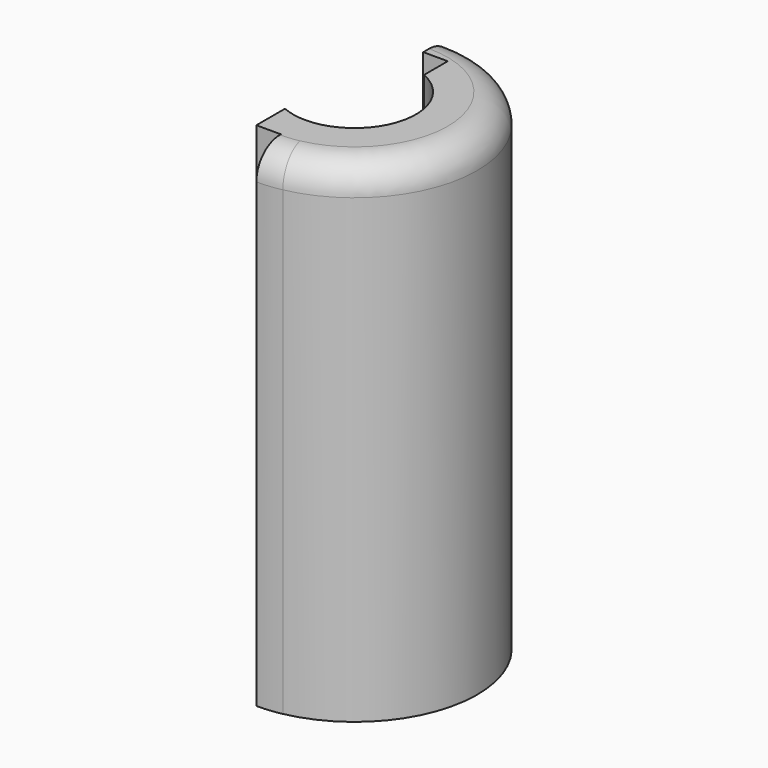
from build123d import *

# Parameters (mm, degrees)
F1_DEPTH = 100
F2_R     = 6


with BuildPart() as f1:
    # F0 (on Top) → F1 (new body)
    with BuildSketch(Plane.XY):
        with BuildLine():
            ThreePointArc((5, 11.456439), (12.236329, -2.553871), (0, -12.5))
            ThreePointArc((0, -12.5), (-2.553871, -12.236329), (-5, -11.456439))
            Line((-5, -11.456439), (-5, -18.75))
            Line((-5, -18.75), (0, -18.75))
            Line((0, -18.75), (0, -25))
            ThreePointArc((0, -25), (2.512724, -24.873404), (5, -24.494897))
            ThreePointArc((5, -24.494897), (24.873404, 2.512724), (0, 25))
            Line((0, 25), (0, 17.5))
            Line((0, 17.5), (5, 17.5))
            Line((5, 17.5), (5, 11.456439))
        make_face()
    extrude(amount=F1_DEPTH)

    # F2
    f2_edges = [f1.edges().sort_by_distance(p)[0] for p in [
        (25, 0, 100),
    ]]
    fillet(f2_edges, radius=F2_R)


solid = f1.part
